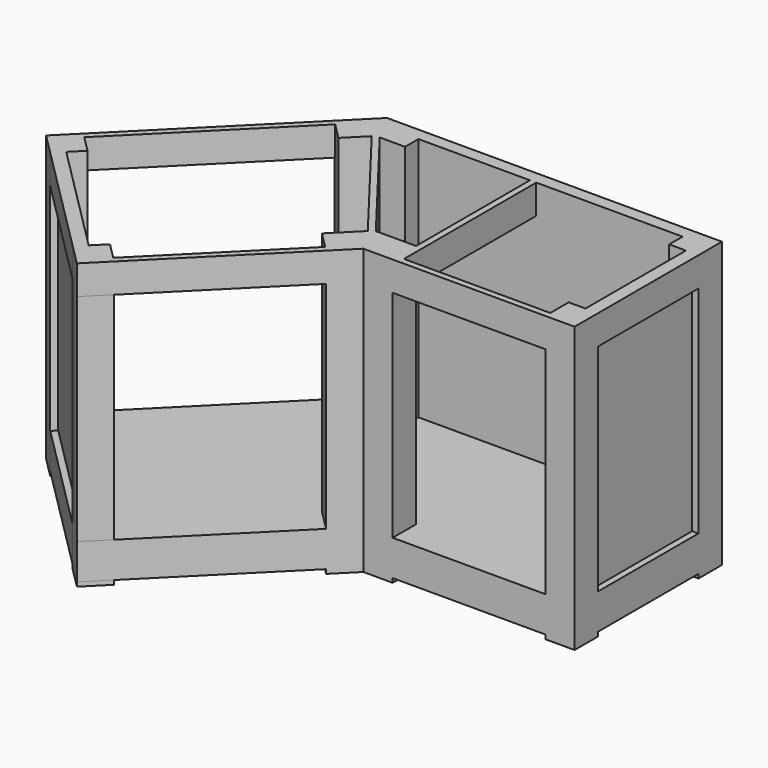
from build123d import *

# Parameters (mm, degrees)
F0_W          = 88.9
F0_H          = 88.9
F1_DEPTH      = 863.6
F2_W          = 513.853363
F2_H          = 520.7
F3_DEPTH      = 88.9
F6_W          = 475.753363
F6_H          = 482.6
F7_DEPTH      = 88.9
F9_DEPTH      = 18.796
F9_DEPTH_BACK = 0.254
F10_W         = 801.376414
F10_H         = 19.05
F10_W_2       = 19.05
F10_H_2       = 381
F11_DEPTH     = 743.204


with BuildPart() as f1:
    # F0 (on Top) → F1 (new body)
    with BuildSketch(Plane.XY):
        Polygon((-26.038207, -26.038207), (-88.9, -88.9), (-26.038207, -151.761793), (36.823586, -88.9), (125.723586, -88.9), (125.723586, 0), (36.823586, 0), (0, 0), align=None)
        Polygon((-26.038207, -26.038207), (-88.9, -88.9), (-26.038207, -151.761793), (36.823586, -88.9), (125.723586, -88.9), (125.723586, 0), (36.823586, 0), (0, 0), align=None)
        with Locations((971.55, -44.45)):
            Rectangle(F0_W, F0_H)
        Polygon((-511.874599, -511.874599), (-574.736392, -574.736392), (-511.874599, -637.598185), (-449.012806, -574.736392), align=None)
        Polygon((-170.624866, -978.847917), (-107.763073, -1041.70971), (-44.901281, -978.847917), (-107.763073, -915.986124), align=None)
        Polygon((312.284844, -621.661793), (375.146637, -558.8), (464.046637, -558.8), (464.046637, -469.9), (375.146637, -469.9), (338.323051, -469.9), (312.284844, -495.938207), (249.423051, -558.8), align=None)
        with Locations((971.55, -514.35)):
            Rectangle(F0_W, F0_H)
    extrude(amount=-F1_DEPTH)


with BuildPart() as f3:
    # F2 (on Top) → F3 (new body)
    with BuildSketch(Plane.XY):
        Polygon((1016, 0), (0, 0), (-574.736392, -574.736392), (-107.763073, -1041.70971), (375.146637, -558.8), (1016, -558.8), align=None)
        Polygon((367.255868, -539.75), (-107.763073, -1014.768942), (-547.795623, -574.736392), (7.890768, -19.05), (464.046637, -19.05), (464.046637, -539.75), align=None, mode=Mode.SUBTRACT)
        with Locations((740.023318, -279.4)):
            Rectangle(F2_W, F2_H, mode=Mode.SUBTRACT)
    extrude(amount=-F3_DEPTH)


with BuildPart() as f1_1:
    add(f1.part)

    # F4: union F3
    add(f3.part)

    # F6 (on offset) → F7 (join)
    with BuildSketch(Plane.XY.offset(-762)):
        Polygon((1016, 0), (0, 0), (-574.736392, -574.736392), (-107.763073, -1041.70971), (375.146637, -558.8), (1016, -558.8), align=None)
        Polygon((-107.763073, -987.828173), (-520.854855, -574.736392), (-154.688475, -208.570011), (258.403307, -621.661793), align=None, mode=Mode.SUBTRACT)
        Polygon((-127.747706, -181.629243), (15.781537, -38.1), (464.046637, -38.1), (464.046637, -520.7), (359.3651, -520.7), (285.344075, -594.721024), align=None, mode=Mode.SUBTRACT)
        with Locations((740.023318, -279.4)):
            Rectangle(F6_W, F6_H, mode=Mode.SUBTRACT)
    extrude(amount=-F7_DEPTH)

    # F8 (on face) → F9 (join, two sides)
    with BuildSketch(Plane.XY.offset(-762)) as f9_sk:
        Polygon((-574.736392, -574.736392), (-107.763073, -1041.70971), (375.146637, -558.8), (1016, -558.8), (1016, 0), (0, 0), align=None)
    extrude(amount=F9_DEPTH)
    extrude(f9_sk.sketch, amount=-F9_DEPTH_BACK)

    # F10 (on Top) → F11 (join, through all)
    with BuildSketch(Plane.XY):
        with Locations((526.411793, -28.575)):
            Rectangle(F10_W, F10_H)
        with Locations((987.425, -279.4)):
            Rectangle(F10_W_2, F10_H_2)
        Polygon((44.374324, -83.093798), (29.272848, -94.706202), (326.710647, -481.512404), (341.812123, -469.9), align=None)
        Polygon((-484.933831, -610.657416), (-498.404215, -624.1278), (-157.154482, -965.377533), (-143.684098, -951.907149), align=None)
    extrude(amount=-F11_DEPTH)


solid = f1_1.part
